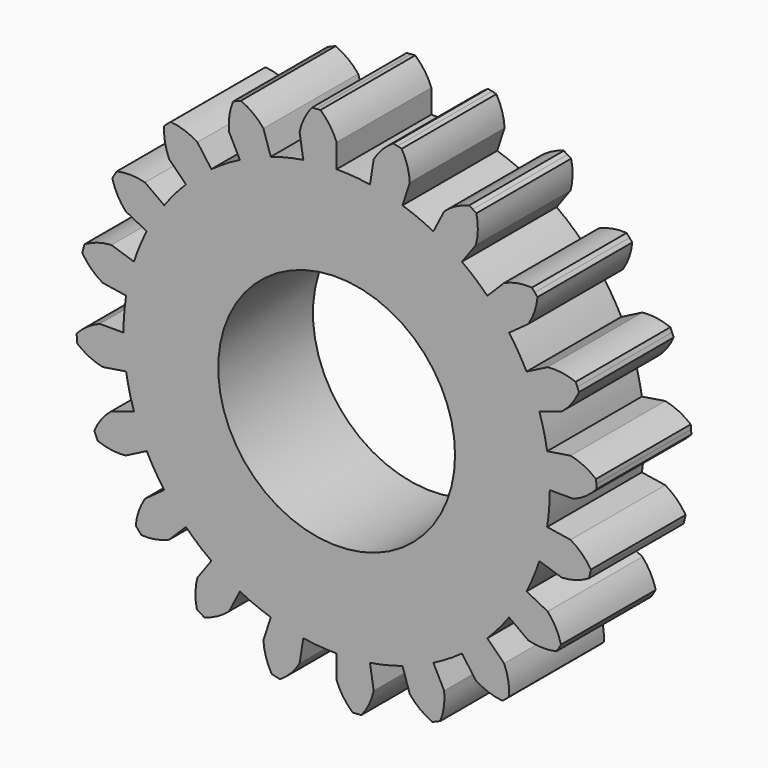
from build123d import *

# Parameters (mm, degrees)
F1_DEPTH = 6.35
F2_R     = 6.35
F3_DEPTH = 25.4


with BuildPart() as f1:
    # F0 (on Front) → F1 (new body)
    with BuildSketch(Plane.XZ):
        with BuildLine():
            Line((-1.986718, 12.543642), (-1.788046, 11.289278))
            ThreePointArc((-1.788046, 11.289278), (-2.668281, 11.114188), (-3.532064, 10.870576))
            Line((-3.532064, 10.870576), (-3.924516, 12.078418))
            ThreePointArc((-3.924516, 12.078418), (-4.472652, 12.608937), (-5.131508, 12.993403))
            Line((-5.131508, 12.993403), (-5.346822, 12.908369))
            Line((-5.346822, 12.908369), (-5.559199, 12.816248))
            ThreePointArc((-5.559199, 12.816248), (-5.753222, 12.078508), (-5.765679, 11.315783))
            Line((-5.765679, 11.315783), (-5.189111, 10.184205))
            ThreePointArc((-5.189111, 10.184205), (-5.972159, 9.745677), (-6.718385, 9.247064))
            Line((-6.718385, 9.247064), (-7.464873, 10.274516))
            ThreePointArc((-7.464873, 10.274516), (-8.150121, 10.609687), (-8.895537, 10.771738))
            Line((-8.895537, 10.771738), (-9.074035, 10.62433))
            Line((-9.074035, 10.62433), (-9.247551, 10.471089))
            ThreePointArc((-9.247551, 10.471089), (-9.204104, 9.7095), (-8.980256, 8.980256))
            Line((-8.980256, 8.980256), (-8.082231, 8.082231))
            ThreePointArc((-8.082231, 8.082231), (-8.69144, 7.423191), (-9.247064, 6.718385))
            Line((-9.247064, 6.718385), (-10.274516, 7.464873))
            ThreePointArc((-10.274516, 7.464873), (-11.029799, 7.571886), (-11.788808, 7.495659))
            Line((-11.788808, 7.495659), (-11.913018, 7.300307))
            Line((-11.913018, 7.300307), (-12.030688, 7.100947))
            ThreePointArc((-12.030688, 7.100947), (-11.754023, 6.390059), (-11.315783, 5.765679))
            Line((-11.315783, 5.765679), (-10.184205, 5.189111))
            ThreePointArc((-10.184205, 5.189111), (-10.559943, 4.374072), (-10.870576, 3.532064))
            Line((-10.870576, 3.532064), (-12.078418, 3.924516))
            ThreePointArc((-12.078418, 3.924516), (-12.829804, 3.792896), (-13.528109, 3.485854))
            Line((-13.528109, 3.485854), (-13.585873, 3.261679))
            Line((-13.585873, 3.261679), (-13.636178, 3.035715))
            ThreePointArc((-13.636178, 3.035715), (-13.153377, 2.445114), (-12.543642, 1.986718))
            Line((-12.543642, 1.986718), (-11.289278, 1.788046))
            ThreePointArc((-11.289278, 1.788046), (-11.394765, 0.896787), (-11.43, 0))
            Line((-11.43, 0), (-12.7, 0))
            ThreePointArc((-12.7, 0), (-13.373938, -0.357369), (-13.943184, -0.865172))
            Line((-13.943184, -0.865172), (-13.928847, -1.096224))
            Line((-13.928847, -1.096224), (-13.906863, -1.326674))
            ThreePointArc((-13.906863, -1.326674), (-13.265187, -1.739175), (-12.543642, -1.986718))
            Line((-12.543642, -1.986718), (-11.289278, -1.788046))
            ThreePointArc((-11.289278, -1.788046), (-11.114188, -2.668281), (-10.870576, -3.532064))
            Line((-10.870576, -3.532064), (-12.078418, -3.924516))
            ThreePointArc((-12.078418, -3.924516), (-12.608937, -4.472652), (-12.993403, -5.131508))
            Line((-12.993403, -5.131508), (-12.908369, -5.346822))
            Line((-12.908369, -5.346822), (-12.816248, -5.559199))
            ThreePointArc((-12.816248, -5.559199), (-12.078508, -5.753222), (-11.315783, -5.765679))
            Line((-11.315783, -5.765679), (-10.184205, -5.189111))
            ThreePointArc((-10.184205, -5.189111), (-9.745677, -5.972159), (-9.247064, -6.718385))
            Line((-9.247064, -6.718385), (-10.274516, -7.464873))
            ThreePointArc((-10.274516, -7.464873), (-10.609687, -8.150121), (-10.771738, -8.895537))
            Line((-10.771738, -8.895537), (-10.62433, -9.074035))
            Line((-10.62433, -9.074035), (-10.471089, -9.247551))
            ThreePointArc((-10.471089, -9.247551), (-9.7095, -9.204104), (-8.980256, -8.980256))
            Line((-8.980256, -8.980256), (-8.082231, -8.082231))
            ThreePointArc((-8.082231, -8.082231), (-7.423191, -8.69144), (-6.718385, -9.247064))
            Line((-6.718385, -9.247064), (-7.464873, -10.274516))
            ThreePointArc((-7.464873, -10.274516), (-7.571886, -11.029799), (-7.495659, -11.788808))
            Line((-7.495659, -11.788808), (-7.300307, -11.913018))
            Line((-7.300307, -11.913018), (-7.100947, -12.030688))
            ThreePointArc((-7.100947, -12.030688), (-6.390059, -11.754023), (-5.765679, -11.315783))
            Line((-5.765679, -11.315783), (-5.189111, -10.184205))
            ThreePointArc((-5.189111, -10.184205), (-4.374072, -10.559943), (-3.532064, -10.870576))
            Line((-3.532064, -10.870576), (-3.924516, -12.078418))
            ThreePointArc((-3.924516, -12.078418), (-3.792896, -12.829804), (-3.485854, -13.528109))
            Line((-3.485854, -13.528109), (-3.261679, -13.585873))
            Line((-3.261679, -13.585873), (-3.035715, -13.636178))
            ThreePointArc((-3.035715, -13.636178), (-2.445114, -13.153377), (-1.986718, -12.543642))
            Line((-1.986718, -12.543642), (-1.788046, -11.289278))
            ThreePointArc((-1.788046, -11.289278), (-0.896787, -11.394765), (0, -11.43))
            Line((0, -11.43), (0, -12.7))
            ThreePointArc((0, -12.7), (0.357369, -13.373938), (0.865172, -13.943184))
            Line((0.865172, -13.943184), (1.096224, -13.928847))
            Line((1.096224, -13.928847), (1.326674, -13.906863))
            ThreePointArc((1.326674, -13.906863), (1.739175, -13.265187), (1.986718, -12.543642))
            Line((1.986718, -12.543642), (1.788046, -11.289278))
            ThreePointArc((1.788046, -11.289278), (2.668281, -11.114188), (3.532064, -10.870576))
            Line((3.532064, -10.870576), (3.924516, -12.078418))
            ThreePointArc((3.924516, -12.078418), (4.472652, -12.608937), (5.131508, -12.993403))
            Line((5.131508, -12.993403), (5.346822, -12.908369))
            Line((5.346822, -12.908369), (5.559199, -12.816248))
            ThreePointArc((5.559199, -12.816248), (5.753222, -12.078508), (5.765679, -11.315783))
            Line((5.765679, -11.315783), (5.189111, -10.184205))
            ThreePointArc((5.189111, -10.184205), (5.972159, -9.745677), (6.718385, -9.247064))
            Line((6.718385, -9.247064), (7.464873, -10.274516))
            ThreePointArc((7.464873, -10.274516), (8.150121, -10.609687), (8.895537, -10.771738))
            Line((8.895537, -10.771738), (9.074035, -10.62433))
            Line((9.074035, -10.62433), (9.247551, -10.471089))
            ThreePointArc((9.247551, -10.471089), (9.204104, -9.7095), (8.980256, -8.980256))
            Line((8.980256, -8.980256), (8.082231, -8.082231))
            ThreePointArc((8.082231, -8.082231), (8.69144, -7.423191), (9.247064, -6.718385))
            Line((9.247064, -6.718385), (10.274516, -7.464873))
            ThreePointArc((10.274516, -7.464873), (11.029799, -7.571886), (11.788808, -7.495659))
            Line((11.788808, -7.495659), (11.913018, -7.300307))
            Line((11.913018, -7.300307), (12.030688, -7.100947))
            ThreePointArc((12.030688, -7.100947), (11.754023, -6.390059), (11.315783, -5.765679))
            Line((11.315783, -5.765679), (10.184205, -5.189111))
            ThreePointArc((10.184205, -5.189111), (10.559943, -4.374072), (10.870576, -3.532064))
            Line((10.870576, -3.532064), (12.078418, -3.924516))
            ThreePointArc((12.078418, -3.924516), (12.829804, -3.792896), (13.528109, -3.485854))
            Line((13.528109, -3.485854), (13.585873, -3.261679))
            Line((13.585873, -3.261679), (13.636178, -3.035715))
            ThreePointArc((13.636178, -3.035715), (13.153377, -2.445114), (12.543642, -1.986718))
            Line((12.543642, -1.986718), (11.289278, -1.788046))
            ThreePointArc((11.289278, -1.788046), (11.394765, -0.896787), (11.43, 0))
            Line((11.43, 0), (12.7, 0))
            ThreePointArc((12.7, 0), (13.373938, 0.357369), (13.943184, 0.865172))
            Line((13.943184, 0.865172), (13.928847, 1.096224))
            Line((13.928847, 1.096224), (13.906863, 1.326674))
            ThreePointArc((13.906863, 1.326674), (13.265187, 1.739175), (12.543642, 1.986718))
            Line((12.543642, 1.986718), (11.289278, 1.788046))
            ThreePointArc((11.289278, 1.788046), (11.114188, 2.668281), (10.870576, 3.532064))
            Line((10.870576, 3.532064), (12.078418, 3.924516))
            ThreePointArc((12.078418, 3.924516), (12.608937, 4.472652), (12.993403, 5.131508))
            Line((12.993403, 5.131508), (12.908369, 5.346822))
            Line((12.908369, 5.346822), (12.816248, 5.559199))
            ThreePointArc((12.816248, 5.559199), (12.078508, 5.753222), (11.315783, 5.765679))
            Line((11.315783, 5.765679), (10.184205, 5.189111))
            ThreePointArc((10.184205, 5.189111), (9.745677, 5.972159), (9.247064, 6.718385))
            Line((9.247064, 6.718385), (10.274516, 7.464873))
            ThreePointArc((10.274516, 7.464873), (10.609687, 8.150121), (10.771738, 8.895537))
            Line((10.771738, 8.895537), (10.62433, 9.074035))
            Line((10.62433, 9.074035), (10.471089, 9.247551))
            ThreePointArc((10.471089, 9.247551), (9.7095, 9.204104), (8.980256, 8.980256))
            Line((8.980256, 8.980256), (8.082231, 8.082231))
            ThreePointArc((8.082231, 8.082231), (7.423191, 8.69144), (6.718385, 9.247064))
            Line((6.718385, 9.247064), (7.464873, 10.274516))
            ThreePointArc((7.464873, 10.274516), (7.571886, 11.029799), (7.495659, 11.788808))
            Line((7.495659, 11.788808), (7.300307, 11.913018))
            Line((7.300307, 11.913018), (7.100947, 12.030688))
            ThreePointArc((7.100947, 12.030688), (6.390059, 11.754023), (5.765679, 11.315783))
            Line((5.765679, 11.315783), (5.189111, 10.184205))
            ThreePointArc((5.189111, 10.184205), (4.374072, 10.559943), (3.532064, 10.870576))
            Line((3.532064, 10.870576), (3.924516, 12.078418))
            ThreePointArc((3.924516, 12.078418), (3.792896, 12.829804), (3.485854, 13.528109))
            Line((3.485854, 13.528109), (3.261679, 13.585873))
            Line((3.261679, 13.585873), (3.035715, 13.636178))
            ThreePointArc((3.035715, 13.636178), (2.445114, 13.153377), (1.986718, 12.543642))
            Line((1.986718, 12.543642), (1.788046, 11.289278))
            ThreePointArc((1.788046, 11.289278), (0.896787, 11.394765), (0, 11.43))
            Line((0, 11.43), (0, 12.7))
            ThreePointArc((0, 12.7), (-0.357369, 13.373938), (-0.865172, 13.943184))
            Line((-0.865172, 13.943184), (-1.096224, 13.928847))
            Line((-1.096224, 13.928847), (-1.326674, 13.906863))
            ThreePointArc((-1.326674, 13.906863), (-1.739175, 13.265187), (-1.986718, 12.543642))
        make_face()
    extrude(amount=F1_DEPTH)

    # F2 (on face) → F3 (cut)
    with BuildSketch(Plane.XZ.offset(6.35)):
        Circle(F2_R)
    extrude(amount=-F3_DEPTH, mode=Mode.SUBTRACT)


solid = f1.part
